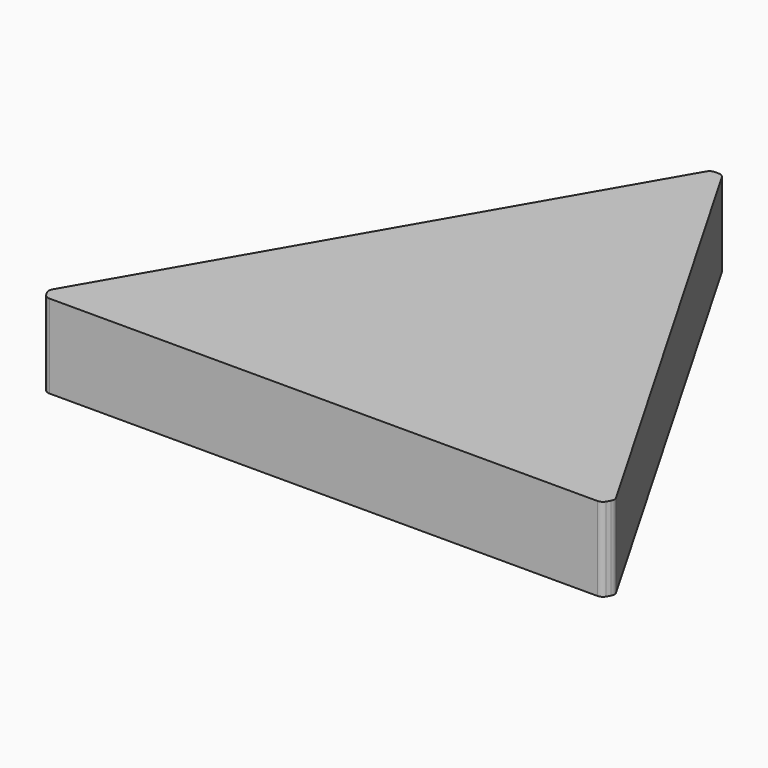
from build123d import *

# Parameters (mm, degrees)
F1_DEPTH = 5
F2_SIZE  = 0.7
F3_R     = 0.4


with BuildPart() as f1:
    # F0 (on Top) → F1 (new body)
    with BuildSketch(Plane.XY):
        Polygon((0, 15), (-17.3205080757, -15), (17.3205080757, -15), align=None)
    extrude(amount=F1_DEPTH)

    # F2
    f2_edges = [f1.edges().sort_by_distance(p)[0] for p in [
        (-17.320508, -15, 2.5),
        (17.320508, -15, 2.5),
        (0, 15, 2.5),
    ]]
    chamfer(f2_edges, length=F2_SIZE)

    # F3
    f3_edges = [f1.edges().sort_by_distance(p)[0] for p in [
        (-0.35, 14.393782, 2.5),
        (0.35, 14.393782, 2.5),
        (16.970508, -14.393782, 2.5),
        (16.620508, -15, 2.5),
        (-16.620508, -15, 2.5),
        (-16.970508, -14.393782, 2.5),
    ]]
    fillet(f3_edges, radius=F3_R)


solid = f1.part
